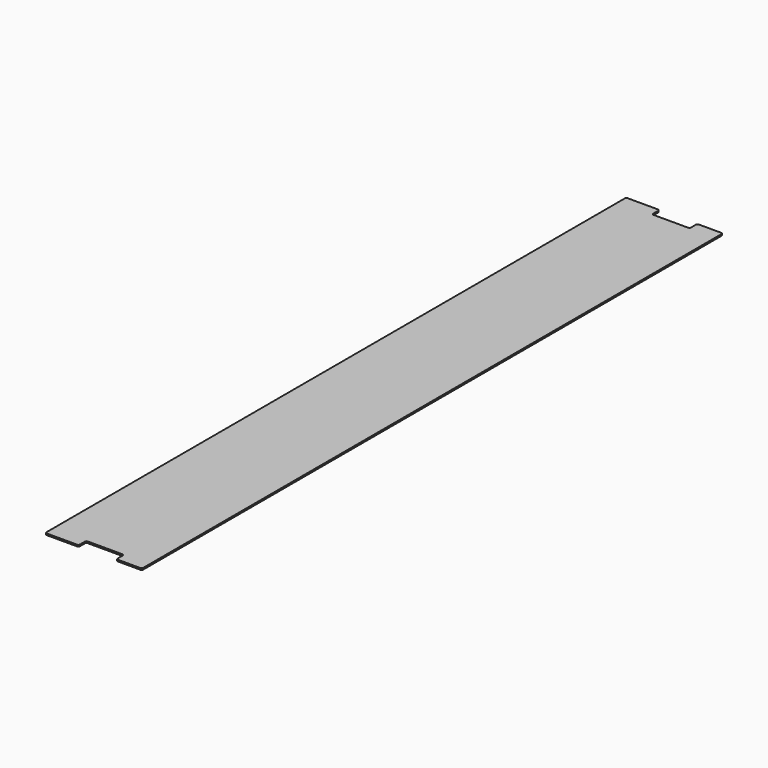
from build123d import *

# Parameters (mm, degrees)
F0_W     = 48
F0_H     = 900
F1_DEPTH = 2
F3_R     = 2


with BuildPart() as f1:
    # F0 (on Top) → F1 (new body)
    with BuildSketch(Plane.XY):
        Rectangle(F0_W, F0_H)
        Polygon((24, 462), (24, 450), (24, -450), (24, -462), (56.5, -462), (56.5, 462), align=None)
        Polygon((-24, -450), (-24, 450), (-24, 462), (-66.5, 462), (-66.5, -462), (-24, -462), align=None)
    extrude(amount=F1_DEPTH)

    # F3
    f3_edges = [f1.edges().sort_by_distance(p)[0] for p in [
        (-66.5, -462, 1),
        (-24, -462, 1),
        (-24, -450, 1),
        (24, -462, 1),
        (56.5, -462, 1),
        (24, -450, 1),
        (56.5, 462, 1),
        (24, 450, 1),
        (24, 462, 1),
        (-24, 462, 1),
        (-66.5, 462, 1),
        (-24, 450, 1),
    ]]
    fillet(f3_edges, radius=F3_R)


solid = f1.part
